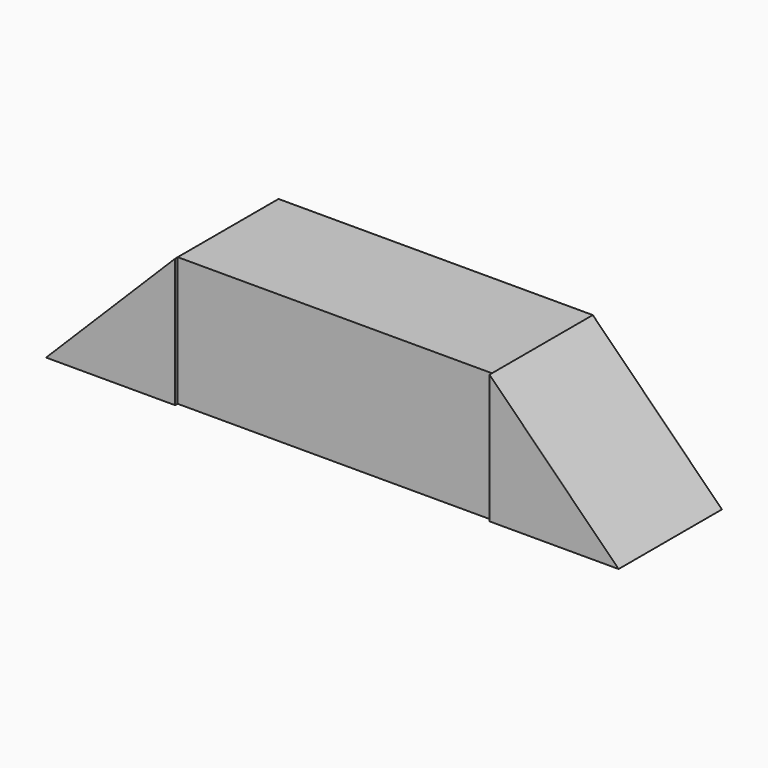
from build123d import *

# Parameters (mm, degrees)
F0_W     = 61.816252
F0_H     = 24.787698
F1_DEPTH = 25.4
F3_DEPTH = 25.4


with BuildPart() as f1:
    # F0 (on Top) → F1 (new body)
    with BuildSketch(Plane.XY):
        Rectangle(F0_W, F0_H)
    extrude(amount=F1_DEPTH)


with BuildPart() as f3:
    # F2 (on face) → F3 (new body)
    with BuildSketch(Plane(origin=(0, 12.393849, 0), x_dir=(-1, 0, 0), z_dir=(0, 1, 0))):
        Polygon((-30.908126, 0), (-30.908126, 25.4), (-56.308126, 0), align=None)
        Polygon((56.308126, 0), (30.908126, 25.4), (30.908126, 0), align=None)
    extrude(amount=-F3_DEPTH)


solid = Compound([f1.part, f3.part])
